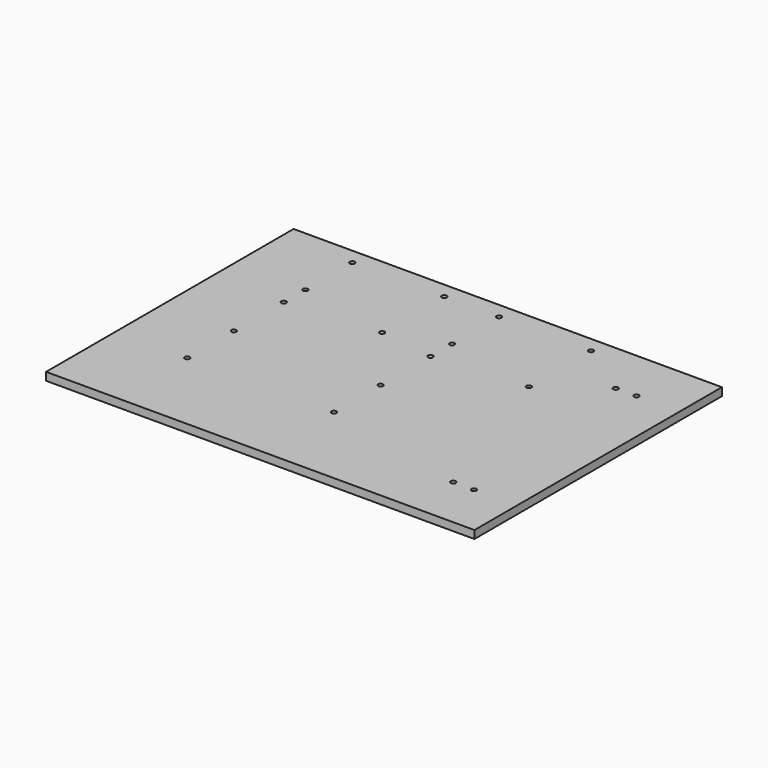
from build123d import *

# Parameters (mm, degrees)
BOX002_W        = 270
BOX002_H        = 195
BOX002_DEPTH    = 5
SKETCH032_R     = 1.563701
SKETCH032_R_2   = 1.563456
SKETCH032_R_3   = 1.570642
SKETCH032_R_4   = 1.574697
SKETCH032_R_5   = 1.556572
SKETCH032_R_6   = 1.566638
SKETCH032_R_7   = 1.563531
SKETCH032_R_8   = 1.553764
SKETCH032_R_9   = 1.555861
SKETCH032_R_10  = 1.537616
SKETCH032_R_11  = 1.557895
SKETCH032_R_12  = 1.550283
SKETCH032_R_13  = 1.562096
SKETCH032_R_14  = 1.558297
SKETCH032_R_15  = 1.569992
SKETCH032_R_16  = 1.573874
SKETCH032_R_17  = 1.570268
SKETCH032_R_18  = 1.554723
POCKET002_DEPTH = 5


with BuildPart() as part:
    # Box002 → Box002 (new body)
    with BuildSketch(Plane.XY):
        with Locations((135, 97.5)):
            Rectangle(BOX002_W, BOX002_H)
    extrude(amount=BOX002_DEPTH)

    # Sketch032 → Pocket002 (cut)
    with BuildSketch(Plane.XY.offset(5)):
        with Locations((45.000683, 185.019791)):
            Circle(SKETCH032_R)
        with Locations((45.016438, 148.035629)):
            Circle(SKETCH032_R_2)
        with Locations((44.978775, 131.047394)):
            Circle(SKETCH032_R_3)
        with Locations((102.990273, 185.022049)):
            Circle(SKETCH032_R_4)
        with Locations((137.501236, 185.020721)):
            Circle(SKETCH032_R_5)
        with Locations((102.964661, 136.023376)):
            Circle(SKETCH032_R_6)
        with Locations((195.46611, 185.024612)):
            Circle(SKETCH032_R_7)
        with Locations((137.497864, 147.975647)):
            Circle(SKETCH032_R_8)
        with Locations((137.52124, 130.993927)):
            Circle(SKETCH032_R_9)
        with Locations((44.981915, 91.750061)):
            Circle(SKETCH032_R_10)
        with Locations((137.480698, 91.7836)):
            Circle(SKETCH032_R_11)
        with Locations((44.959114, 55.019478)):
            Circle(SKETCH032_R_12)
        with Locations((137.499786, 54.971008)):
            Circle(SKETCH032_R_13)
        with Locations((195.499939, 135.972031)):
            Circle(SKETCH032_R_14)
        with Locations((229.972061, 161.407578)):
            Circle(SKETCH032_R_15)
        with Locations((242.978088, 161.430893)):
            Circle(SKETCH032_R_16)
        with Locations((229.972733, 33.426083)):
            Circle(SKETCH032_R_17)
        with Locations((242.98584, 33.418591)):
            Circle(SKETCH032_R_18)
    extrude(amount=-POCKET002_DEPTH, mode=Mode.SUBTRACT)


solid = part.part
